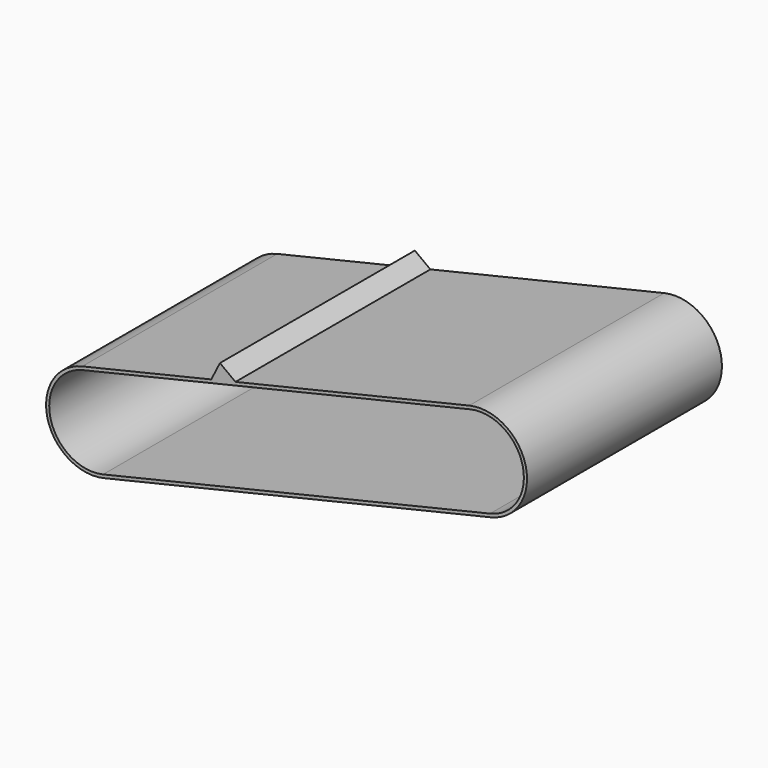
from build123d import *

# Parameters (mm, degrees)
PAD_DEPTH = 800


with BuildPart() as part:
    # Sketch → Pad (new body)
    with BuildSketch(Plane.XZ.offset(400)):
        with BuildLine():
            Line((-670.82039, 0), (-247.213593, 100))
            Line((-247.213593, 100), (-218.661794, 156.72588))
            Line((-218.661794, 156.72588), (-167.755704, 118.757463))
            Line((-167.755704, 118.757463), (600, 300))
            ThreePointArc((670.820393, 1e-06), (785.410194, 185.410196), (600, 300))
            Line((-600, -300), (670.820393, 1e-06))
            ThreePointArc((-670.82039, 0), (-785.410196, -185.410195), (-600, -300))
        make_face()
        with BuildLine():
            Line((-668.459715, -10), (602.360681, 290.000001))
            ThreePointArc((668.4598, 10.00002), (775.410185, 183.04956), (602.360681, 290.000001))
            Line((-602.360681, -290.000002), (668.4598, 10.00002))
            ThreePointArc((-668.459715, -10), (-775.410197, -183.049518), (-602.360681, -290.000002))
        make_face(mode=Mode.SUBTRACT)
    extrude(amount=-PAD_DEPTH)


solid = part.part
